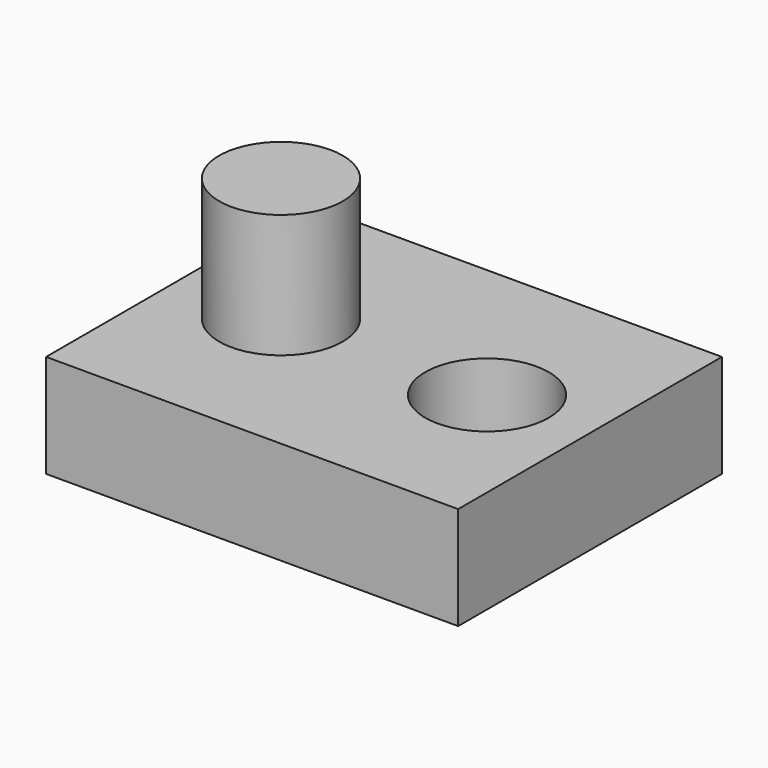
from build123d import *

# Parameters (mm, degrees)
F0_W     = 100
F0_H     = 80
F1_DEPTH = 25
F2_R     = 15
F3_DEPTH = 30
F4_R     = 15
F5_DEPTH = 25


with BuildPart() as f1:
    # F0 (on Top) → F1 (new body)
    with BuildSketch(Plane.XY):
        Rectangle(F0_W, F0_H)
    extrude(amount=F1_DEPTH)

    # F2 (on face) → F3 (join)
    with BuildSketch(Plane.XY.offset(25)):
        with Locations((-25, 0)):
            Circle(F2_R)
    extrude(amount=F3_DEPTH)

    # F4 (on face) → F5 (cut)
    with BuildSketch(Plane.XY.offset(25)):
        with Locations((25, 0)):
            Circle(F4_R)
    extrude(amount=-F5_DEPTH, mode=Mode.SUBTRACT)


solid = f1.part
